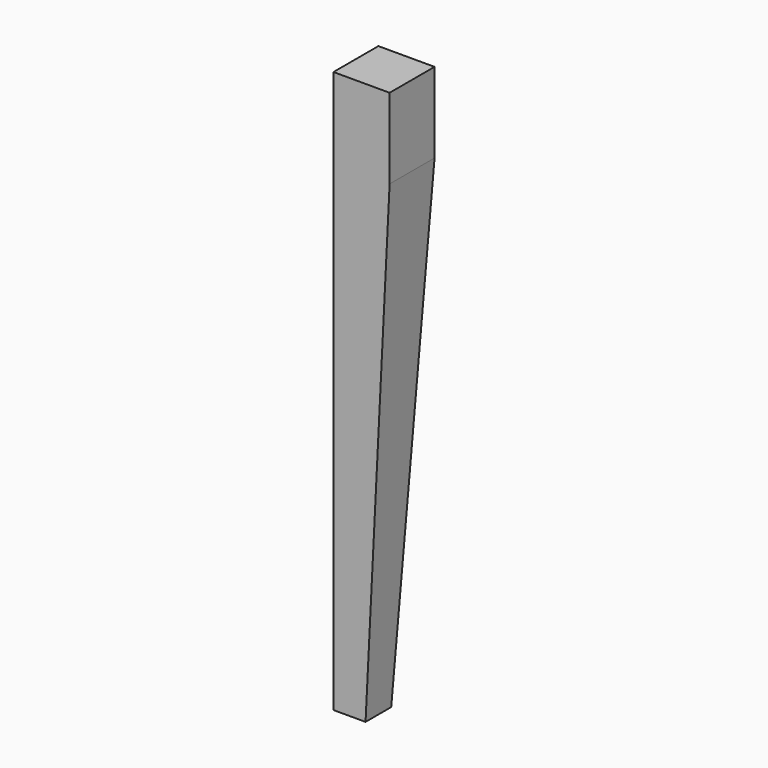
from build123d import *

# Parameters (mm, degrees)
F1_DEPTH = 44.45
F3_DEPTH = 44.451


with BuildPart() as f1:
    # F0 (on Front) → F1 (new body)
    with BuildSketch(Plane.XZ):
        Polygon((0, 444.5), (0, 0), (25.4, 0), (44.45, 381), (44.45, 444.5), align=None)
    extrude(amount=F1_DEPTH)

    # F2 (on face) → F3 (cut, through all)
    with BuildSketch(Plane(origin=(0, 0, 0), x_dir=(0, -1, 0), z_dir=(-1, 0, 0))):
        Polygon((0, 381), (0, 0), (19.05, 0), align=None)
    extrude(amount=-F3_DEPTH, mode=Mode.SUBTRACT)


solid = f1.part
